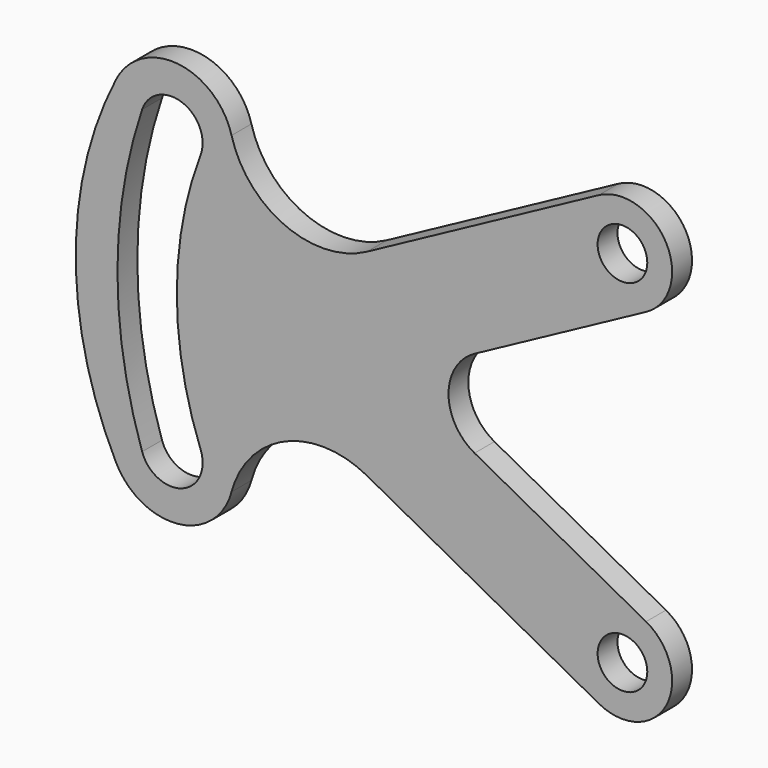
from build123d import *

# Parameters (mm, degrees)
F0_R     = 254
F1_DEPTH = 254


with BuildPart() as f1:
    # F0 (on Front) → F1 (new body)
    with BuildSketch(Plane.XZ):
        with BuildLine():
            ThreePointArc((1676.33425, -446.997287), (1409.7, 0), (1676.33425, 446.997287))
            Line((1676.33425, 446.997287), (3429.06575, 1393.422166))
            ThreePointArc((3429.06575, 1393.422166), (3634.697287, 2081.785203), (2946.33425, 2287.41674))
            Line((2946.33425, 2287.41674), (577.134176, 1008.116463))
            ThreePointArc((577.134176, 1008.116463), (-259.373983, 970.865459), (-807.765235, 1603.637591))
            ThreePointArc((-807.765235, 1603.637591), (-1355.357315, 2069.875397), (-1986.962946, 1725.914491))
            ThreePointArc((-1986.962946, 1725.914491), (-2400.3, 0), (-1986.962946, -1725.914491))
            ThreePointArc((-1986.962946, -1725.914491), (-1355.357315, -2069.875397), (-807.765235, -1603.637591))
            ThreePointArc((-807.765235, -1603.637591), (-259.373983, -970.865459), (577.134176, -1008.116463))
            Line((577.134176, -1008.116463), (2946.33425, -2287.41674))
            ThreePointArc((2946.33425, -2287.41674), (3634.697287, -2081.785203), (3429.06575, -1393.422166))
            Line((3429.06575, -1393.422166), (1676.33425, -446.997287))
        make_face()
        with BuildLine():
            ThreePointArc((-1721.770907, 1539.525769), (-1313.851858, 1737.188693), (-1124.027034, 1325.56372))
            ThreePointArc((-1124.027034, 1325.56372), (-1367.202469, 0), (-1124.027034, -1325.56372))
            ThreePointArc((-1124.027034, -1325.56372), (-1313.851858, -1737.188693), (-1721.770907, -1539.525769))
            ThreePointArc((-1721.770907, -1539.525769), (-1973.862455, 0), (-1721.770907, 1539.525769))
        make_face(mode=Mode.SUBTRACT)
        with Locations((3187.7, -1840.419453)):
            Circle(F0_R, mode=Mode.SUBTRACT)
        with Locations((3187.7, 1840.419453)):
            Circle(F0_R, mode=Mode.SUBTRACT)
    extrude(amount=F1_DEPTH)


solid = f1.part
